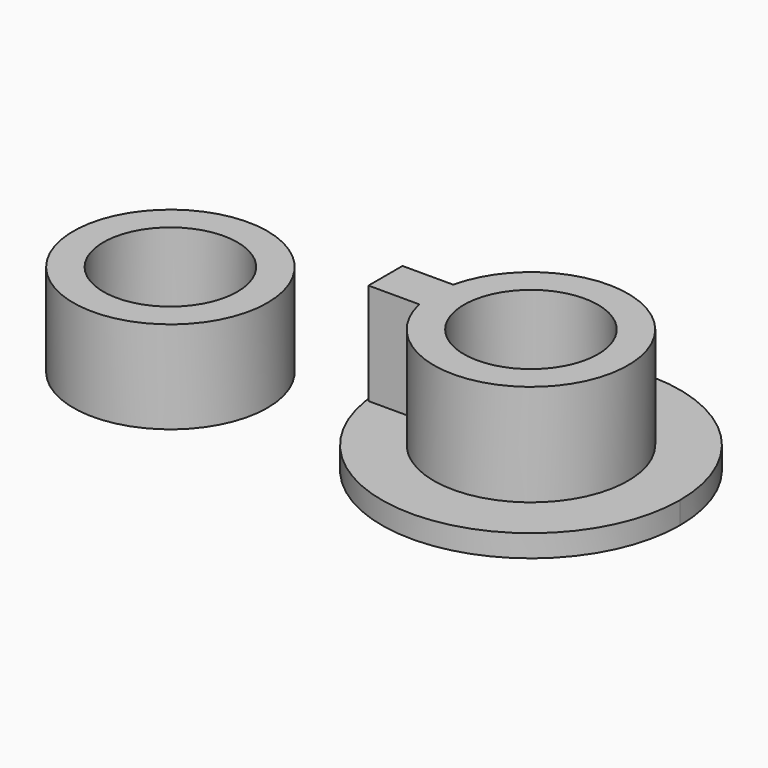
from build123d import *

# Parameters (mm, degrees)
F1_R     = 7.25
F3_DEPTH = 11
F4_DEPTH = 2.4
F6_ANGLE = 180
F2_R     = 10.5
F2_R_2   = 7.25
F7_DEPTH = 10


with BuildPart() as f3:
    # F1 (on Top) → F3 (new body)
    with BuildSketch(Plane.XY):
        with BuildLine():
            ThreePointArc((-10.2449987799, -2.3), (10.5, 0), (-10.2449987799, 2.3))
            Line((-10.2449987799, 2.3), (-15.7356119303, 2.3))
            Line((-15.7356119303, 2.3), (-15.7356119303, 0))
            Line((-15.7356119303, 0), (-15.7356119303, -2.3))
            Line((-15.7356119303, -2.3), (-10.2449987799, -2.3))
        make_face()
        Circle(F1_R, mode=Mode.SUBTRACT)
    extrude(amount=-F3_DEPTH)

    # F1 (on Top) → F4 (join)
    with BuildSketch(Plane.XY):
        with BuildLine():
            ThreePointArc((-10.4038454429, -2.5), (10.7, 0), (-10.4038454429, 2.5))
            Line((-10.4038454429, 2.5), (-15.9356119303, 2.5))
            Line((-15.9356119303, 2.5), (-15.9356119303, 0))
            Line((-15.9356119303, 0), (-15.9356119303, -2.5))
            Line((-15.9356119303, -2.5), (-10.4038454429, -2.5))
        make_face()
        with BuildLine():
            Line((-15.7356119303, 2.3), (-10.2449987799, 2.3))
            ThreePointArc((-10.2449987799, 2.3), (10.5, 0), (-10.2449987799, -2.3))
            Line((-10.2449987799, -2.3), (-15.7356119303, -2.3))
            Line((-15.7356119303, -2.3), (-15.7356119303, 0))
            Line((-15.7356119303, 0), (-15.7356119303, 2.3))
        make_face(mode=Mode.SUBTRACT)
        with BuildLine():
            Line((-15.9356119303, 2.5), (-10.4038454429, 2.5))
            ThreePointArc((-10.4038454429, 2.5), (10.7, 0), (-10.4038454429, -2.5))
            Line((-10.4038454429, -2.5), (-15.9356119303, -2.5))
            ThreePointArc((-15.9356119303, -2.5), (1.2537932231, -16.0817203728), (16.1305216157, 0))
            ThreePointArc((16.1305216157, 0), (1.2537932231, 16.0817203728), (-15.9356119303, 2.5))
        make_face()
        with BuildLine():
            Line((-15.9356119303, 0), (-15.9356119303, 2.5))
            ThreePointArc((-15.9356119303, 2.5), (-16.1305216157, 0), (-15.9356119303, -2.5))
            Line((-15.9356119303, -2.5), (-15.9356119303, 0))
        make_face()
        with BuildLine():
            ThreePointArc((-10.2449987799, -2.3), (10.5, 0), (-10.2449987799, 2.3))
            Line((-10.2449987799, 2.3), (-15.7356119303, 2.3))
            Line((-15.7356119303, 2.3), (-15.7356119303, 0))
            Line((-15.7356119303, 0), (-15.7356119303, -2.3))
            Line((-15.7356119303, -2.3), (-10.2449987799, -2.3))
        make_face()
        Circle(F1_R, mode=Mode.SUBTRACT)
        Circle(F1_R)
    extrude(amount=F4_DEPTH)


with BuildPart() as f3_1:
    # F5: moved
    add(f3.part.moved(Location((35, 0, -2.4))))


with BuildPart() as f3_2:
    # F6: moved
    add(f3_1.part.rotate(Axis((-13.1697286866, 2.5, 0), (-1, 0, 0)), F6_ANGLE))


with BuildPart() as f7:
    # F2 (on Top) → F7 (new body)
    with BuildSketch(Plane.XY):
        Circle(F2_R)
        Circle(F2_R_2, mode=Mode.SUBTRACT)
    extrude(amount=F7_DEPTH)


solid = Compound([f3_2.part, f7.part])
